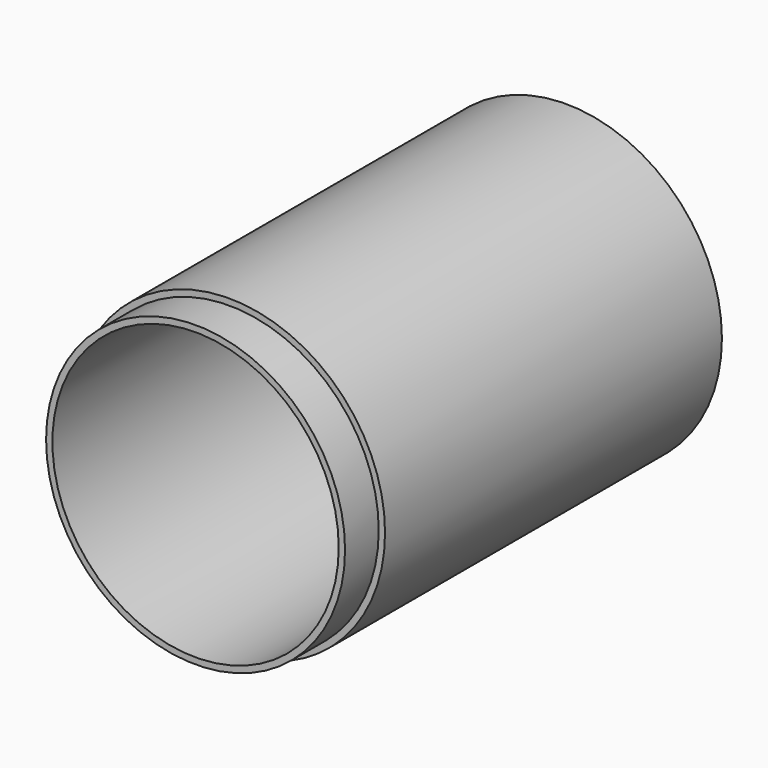
from build123d import *

# Parameters (mm, degrees)
F0_R     = 37
F0_R_2   = 34
F1_DEPTH = 100
F2_R     = 35.5
F3_DEPTH = 10
F4_R     = 34
F5_DEPTH = 25


with BuildPart() as f1:
    # F0 (on Front) → F1 (new body)
    with BuildSketch(Plane.XZ):
        Circle(F0_R)
        Circle(F0_R_2, mode=Mode.SUBTRACT)
    extrude(amount=-F1_DEPTH)

    # F2 (on Front) → F3 (join)
    with BuildSketch(Plane.XZ):
        Circle(F2_R)
    extrude(amount=F3_DEPTH)

    # F4 (on face) → F5 (cut)
    with BuildSketch(Plane.XZ.offset(10)):
        Circle(F4_R)
    extrude(amount=-F5_DEPTH, mode=Mode.SUBTRACT)


solid = f1.part
